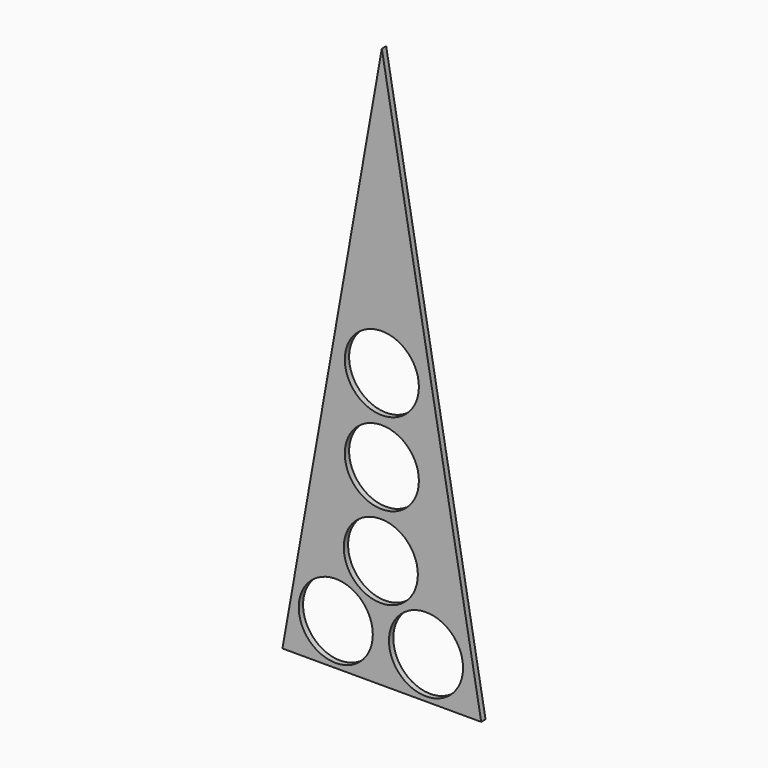
from build123d import *

# Parameters (mm, degrees)
F1_DEPTH = 6
F2_R     = 41
F3_DEPTH = 164.338


with BuildPart() as f1:
    # F0 (on Front) → F1 (new body)
    with BuildSketch(Plane.XZ):
        Polygon((110, -359.174362), (0, 261.148135), (-110, -359.174362), align=None)
    extrude(amount=F1_DEPTH)

    # F2 (on face) → F3 (cut)
    with BuildSketch(Plane.XZ.offset(6)):
        with Locations((48.869055, -313.129812)):
            Circle(F2_R)
        with Locations((-50.995972, -313.129812)):
            Circle(F2_R)
        with Locations((-1.119139, -238.520578)):
            Circle(F2_R)
        with Locations((0, -146.751225)):
            Circle(F2_R)
        with Locations((0, -55.108067)):
            Circle(F2_R)
    extrude(amount=-F3_DEPTH, mode=Mode.SUBTRACT)


solid = f1.part
